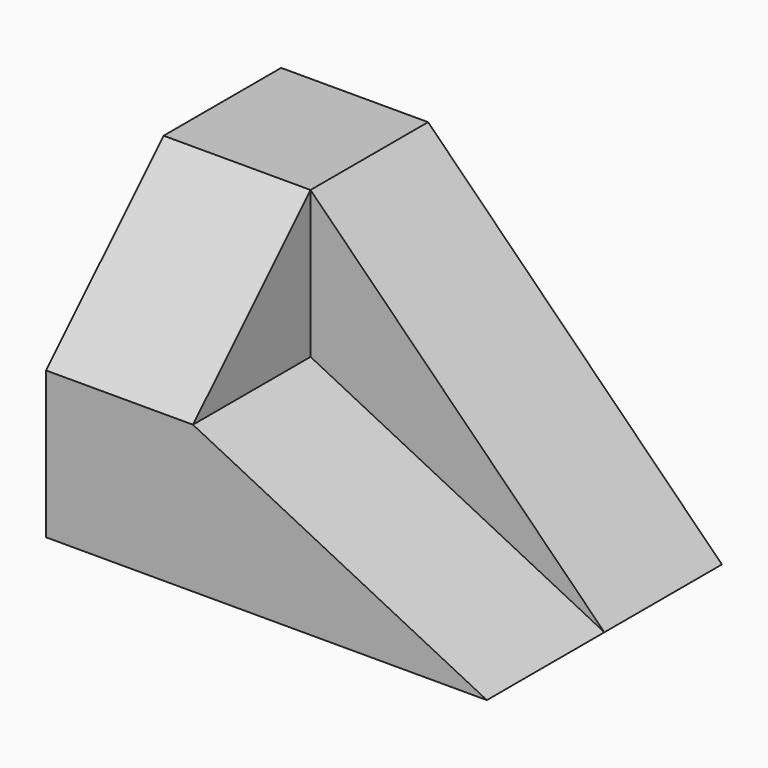
from build123d import *

# Parameters (mm, degrees)
F1_DEPTH = 25.4
F2_DEPTH = 50.8
F4_DEPTH = 25.4


with BuildPart() as f1:
    # F0 (on Front) → F1 (new body)
    with BuildSketch(Plane.XZ):
        Polygon((25.4, 25.4), (76.2, 0), (25.4, 50.8), (0, 50.8), (0, 25.4), align=None)
    extrude(amount=F1_DEPTH)

    # F0 (on Front) → F2 (join)
    with BuildSketch(Plane.XZ):
        Polygon((0, 25.4), (0, 0), (76.2, 0), (25.4, 25.4), align=None)
    extrude(amount=F2_DEPTH)


with BuildPart() as f4:
    # F3 (on face) → F4 (new body)
    with BuildSketch(Plane(origin=(0, 0, 0), x_dir=(0, -1, 0), z_dir=(-1, 0, 0))):
        Polygon((25.4, 25.4), (50.8, 25.4), (25.4, 50.8), align=None)
    extrude(amount=-F4_DEPTH)


solid = Compound([f1.part, f4.part])
